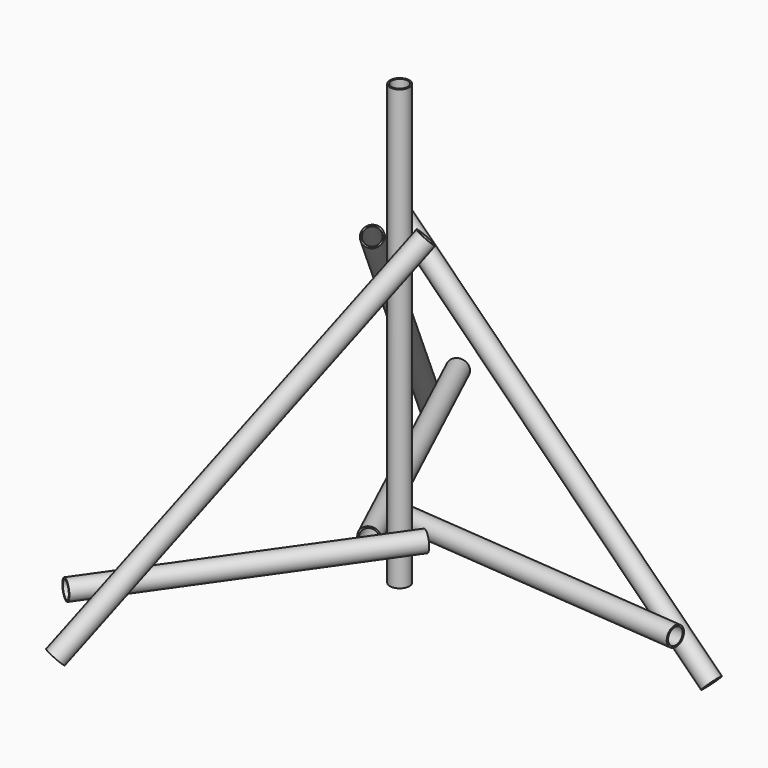
from build123d import *

# Parameters (mm, degrees)
F0_R     = 20
F0_R_2   = 16.799
F1_DEPTH = 900
F2_DEPTH = 600
F3_ANGLE = 90
F4_ANGLE = 5
F6_ANGLE = -45
F8_ANGLE = 120
F9_ANGLE = 120


with BuildPart() as f1:
    # F0 (on Top) → F1 (new body)
    with BuildSketch(Plane.XY):
        Circle(F0_R)
        Circle(F0_R_2, mode=Mode.SUBTRACT)
    extrude(amount=F1_DEPTH)


with BuildPart() as f2:
    # F0 (on Top) → F2 (new body)
    with BuildSketch(Plane.XY):
        Circle(F0_R)
        Circle(F0_R_2, mode=Mode.SUBTRACT)
    extrude(amount=F2_DEPTH)


with BuildPart() as f2_1:
    # F3: moved
    add(f2.part.rotate(Axis((0, 13.401531, 0), (0, 1, 0)), F3_ANGLE))


with BuildPart() as f2_2:
    # F4: moved
    add(f2_1.part.rotate(Axis((0, 0, 0), (0, 0, -1)), F4_ANGLE))


with BuildPart() as f2_3:
    # F5: moved
    add(f2_2.part.moved(Location((-27, 45, 92))))


with BuildPart() as f6_1:
    # F6: copy of F1
    add(f1.part.rotate(Axis((0, 13.401531, 0), (0, 1, 0)), F6_ANGLE))


with BuildPart() as f6_1_1:
    # F7: moved
    add(f6_1.part.moved(Location((607, 40, 0))))


with BuildPart() as f8_1:
    # F8: copy of F6_1
    add(f6_1_1.part.rotate(Axis((0, 0, 0), (0, 0, -1)), F8_ANGLE))


with BuildPart() as f8_2:
    # F8: copy of F2
    add(f2_3.part.rotate(Axis((0, 0, 0), (0, 0, -1)), F8_ANGLE))


with BuildPart() as f9_1:
    # F9: copy of F8_1
    add(f8_1.part.rotate(Axis((0, 0, 0), (0, 0, -1)), F9_ANGLE))


with BuildPart() as f9_2:
    # F9: copy of F8_2
    add(f8_2.part.rotate(Axis((0, 0, 0), (0, 0, -1)), F9_ANGLE))


solid = Compound([f1.part, f2_3.part, f6_1_1.part, f8_1.part, f8_2.part, f9_1.part, f9_2.part])
